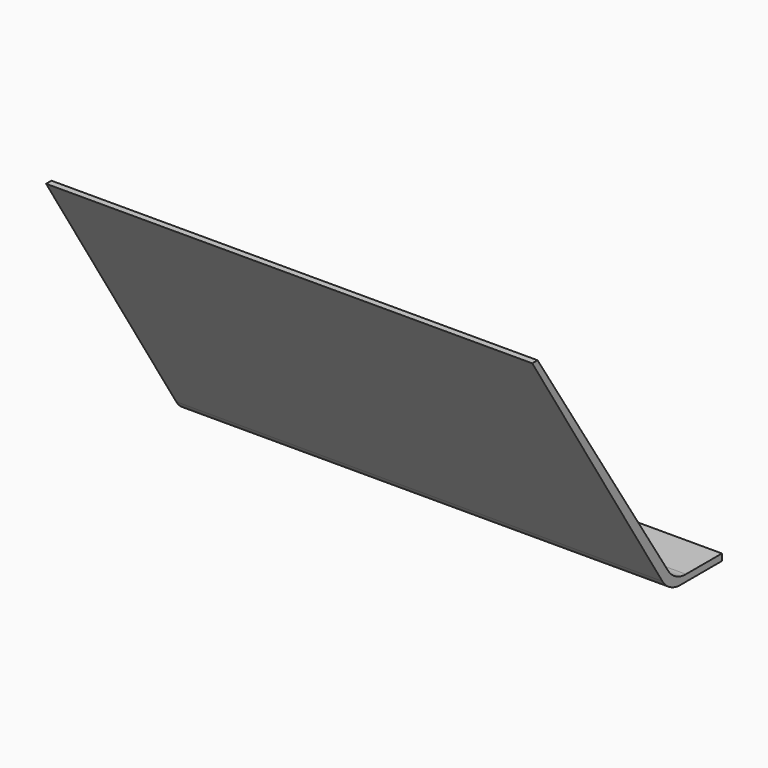
from build123d import *

# Parameters (mm, degrees)
F1_DEPTH = 57.94375


with BuildPart() as f1:
    # F0 (on Right) → F1 (new body, symmetric)
    with BuildSketch(Plane.YZ):
        with BuildLine():
            Line((3.503151, 0), (15.875, 0))
            Line((15.875, 0), (15.875, 1.5875))
            Line((15.875, 1.5875), (5.163465, 1.5875))
            ThreePointArc((5.163465, 1.5875), (2.131531, 2.358085), (-0.164541, 4.482815))
            Line((-0.164541, 4.482815), (-39.0525, 64.457974))
            Line((-39.0525, 64.457974), (-40.64, 64.457974))
            Line((-40.64, 64.457974), (-1.868347, 2.963333))
            ThreePointArc((-1.868347, 2.963333), (0.435809, 0.789972), (3.503151, 0))
        make_face()
    extrude(amount=F1_DEPTH, both=True)


solid = f1.part
